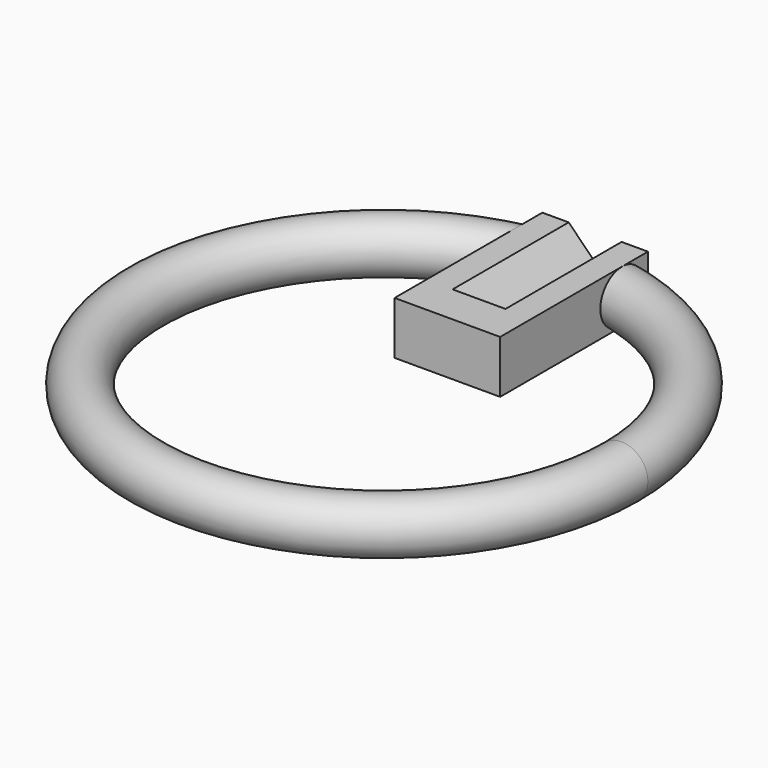
from build123d import *

# Parameters (mm, degrees)
F1_R          = 2
F4_DEPTH      = 2
F4_DEPTH_BACK = 2
F6_DEPTH      = 11


with BuildPart() as f2:
    # F1 (on Front) → F2 (revolve)
    with BuildSketch(Plane.XZ):
        with Locations((18, 0)):
            Circle(F1_R)
    revolve(axis=Axis((0, 0, 0), (0, 0, 1)))

    # F3 (on face) → F4 (join, two sides)
    with BuildSketch(Plane.XY) as f4_sk:
        Polygon((4, 20.003311336), (0, 20.003311336), (-4, 20.003311336), (-4, 6.003311336), (0, 6.003311336), (4, 6.003311336), align=None)
    extrude(amount=F4_DEPTH)
    extrude(f4_sk.sketch, amount=-F4_DEPTH_BACK)

    # F5 (on face) → F6 (cut)
    with BuildSketch(Plane(origin=(0, 20.003311336, 0), x_dir=(-1, 0, 0), z_dir=(0, 1, 0))):
        Polygon((-0.005, 0), (-2.005, -2), (2.005, -2), (0.005, 0), (2.005, 2), (-2.005, 2), align=None)
    extrude(amount=-F6_DEPTH, mode=Mode.SUBTRACT)


solid = f2.part
